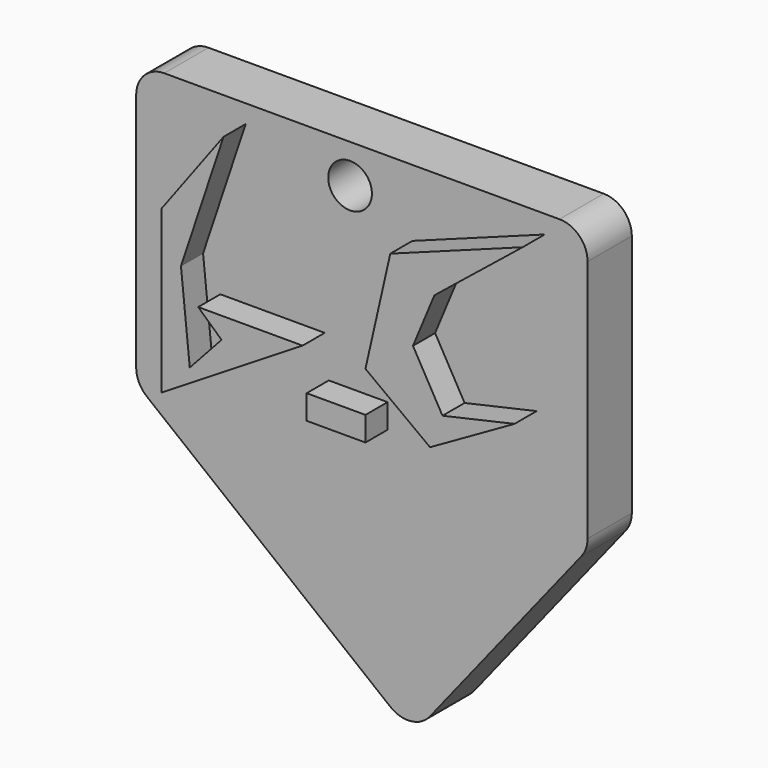
from build123d import *

# Parameters (mm, degrees)
F1_DEPTH = 10
F2_W     = 10.631341
F2_H     = 4.399176
F3_DEPTH = 5
F4_R     = 3.948378
F5_DEPTH = 101.092
F6_R     = 5.08


with BuildPart() as f1:
    # F0 (on Front) → F1 (new body)
    with BuildSketch(Plane.XZ):
        Polygon((31.674738, 50.957117), (-49.948968, 50.957117), (-49.948968, 0), (0, -39.775878), (31.674738, 0), align=None)
    extrude(amount=F1_DEPTH)

    # F2 (on face) → F3 (join)
    with BuildSketch(Plane.XZ.offset(10)):
        Polygon((-37.851237, 24.562063), (-30.15268, 47.657736), (-41.333918, 32.627217), (-41.333918, 3.299381), (-15.855361, 19.063093), (-34.735154, 19.063093), (-30.519279, 15.213814), (-36.257481, 8.929118), align=None)
        Polygon((7.973504, 34.826804), (23.920517, 47.657736), (0, 38.859382), (-4.490824, 19.063093), (7.183906, 10.378234), (22.454122, 19.063093), (9.439895, 16.13031), (4.101735, 25.516167), align=None)
        with Locations((-9.806494, 9.531547)):
            Rectangle(F2_W, F2_H)
    extrude(amount=F3_DEPTH)

    # F4 (on face) → F5 (cut)
    with BuildSketch(Plane.XZ.offset(10)):
        with Locations((-11.272887, 43.991752)):
            Circle(F4_R)
    extrude(amount=-F5_DEPTH, mode=Mode.SUBTRACT)

    # F6
    f6_edges = [f1.edges().sort_by_distance(p)[0] for p in [
        (-49.948968, -5, 50.957117),
        (31.674738, -5, 50.957117),
        (31.674738, -5, 0),
        (0, -5, -39.775878),
        (-49.948968, -5, 0),
    ]]
    fillet(f6_edges, radius=F6_R)


solid = f1.part
